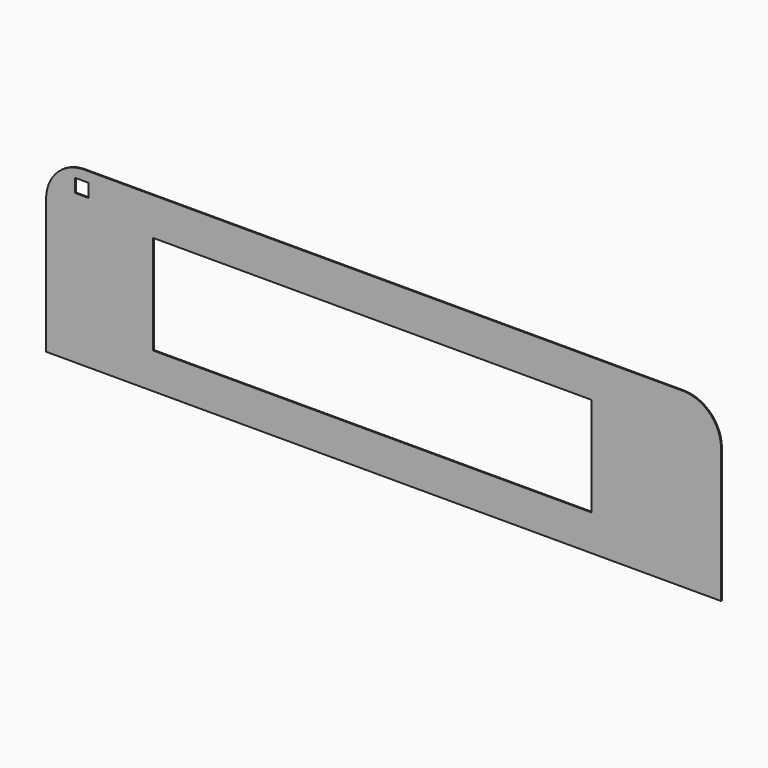
from build123d import *

# Parameters (mm, degrees)
F0_W     = 58.42
F0_H     = 13.208
F0_W_2   = 1.778
F0_H_2   = 1.778
F1_DEPTH = 0.1524


with BuildPart() as f1:
    # F0 (on Front) → F1 (new body)
    with BuildSketch(Plane.XZ):
        with BuildLine():
            Line((52.490655, 5.027748), (-27.499016, 5.027748))
            ThreePointArc((-27.499016, 5.027748), (-30.939431, 3.458209), (-32.345345, -0.052249))
            Line((-32.345345, -0.052249), (-32.345345, -17.972252))
            Line((-32.345345, -17.972252), (57.570655, -17.972252))
            Line((57.570655, -17.972252), (57.570655, -0.052252))
            ThreePointArc((57.570655, -0.052252), (56.082758, 3.53985), (52.490655, 5.027748))
        make_face()
        with Locations((11.092218, -6.589826)):
            Rectangle(F0_W, F0_H, mode=Mode.SUBTRACT)
        with Locations((-27.600348, 2.790164)):
            Rectangle(F0_W_2, F0_H_2, mode=Mode.SUBTRACT)
    extrude(amount=F1_DEPTH)


solid = f1.part
